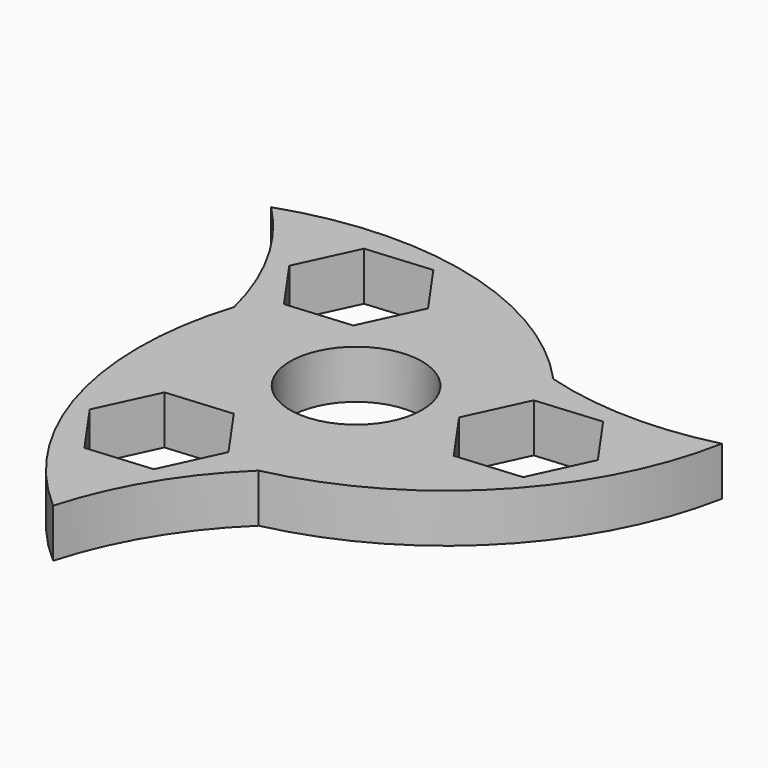
from build123d import *

# Parameters (mm, degrees)
F0_R     = 8.15
F1_DEPTH = 6


with BuildPart() as f1:
    # F0 (on Top) → F1 (new body)
    with BuildSketch(Plane.XY):
        with BuildLine():
            ThreePointArc((35.159031, 12.606658), (24.553031, 11.378634), (14, 13))
            ThreePointArc((14, 13), (-6.205364, 25.067854), (-29.717324, 24.029777))
            ThreePointArc((-29.717324, 24.029777), (-23.350824, 15.458723), (-19.478453, 5.508847))
            ThreePointArc((-19.478453, 5.508847), (-19.826838, -18.023439), (-7.171857, -37.866354))
            ThreePointArc((-7.171857, -37.866354), (-2.932357, -28.067277), (3.748302, -19.738767))
            ThreePointArc((3.748302, -19.738767), (24.302053, -8.274335), (35.159031, 12.606658))
        make_face()
        Polygon((-5.560316, -11.944789), (-0.943026, -18.538963), (-4.345103, -25.834741), (-12.36447, -26.536345), (-16.98176, -19.942171), (-13.579683, -12.646393), align=None, mode=Mode.SUBTRACT)
        Circle(F0_R, mode=Mode.SUBTRACT)
        Polygon((-8.074361, 9.673358), (-16.093728, 8.971755), (-20.711018, 15.565929), (-17.308941, 22.861706), (-9.289574, 23.56331), (-4.672284, 16.969136), align=None, mode=Mode.SUBTRACT)
        Polygon((16.521817, -5.552663), (11.904527, 1.041511), (15.306604, 8.337289), (23.325971, 9.038893), (27.93748, 2.452975), (27.943261, 2.444719), (24.541184, -4.851059), align=None, mode=Mode.SUBTRACT)
    extrude(amount=F1_DEPTH)


solid = f1.part
